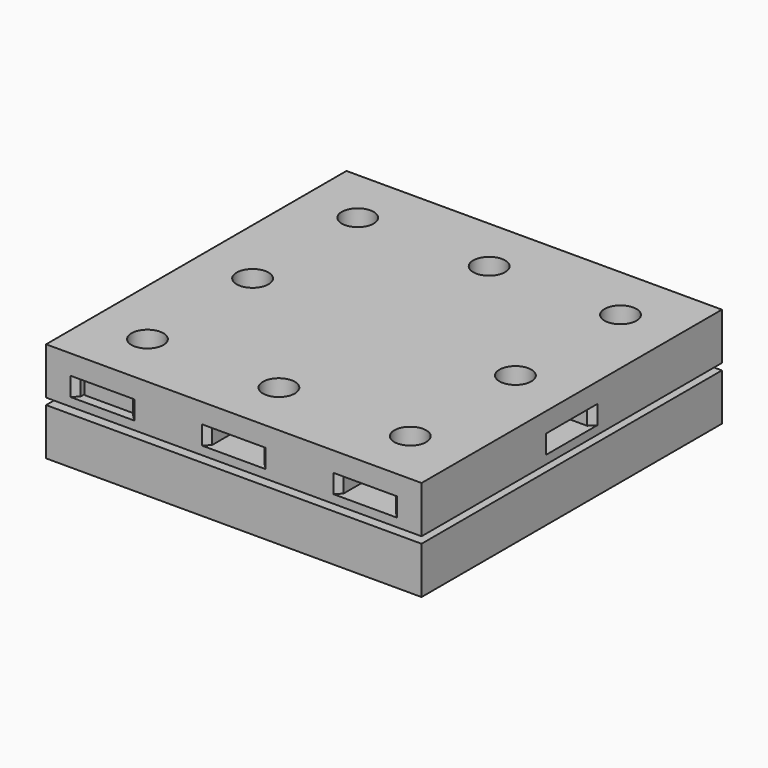
from build123d import *

# Parameters (mm, degrees)
BOX007_W          = 5.4
BOX007_H          = 5.4
BOX007_DEPTH      = 1.65
BOX006_W          = 5.4
BOX006_H          = 5.4
BOX006_DEPTH      = 1.65
BOX003_W          = 5.4
BOX003_H          = 5.4
BOX003_DEPTH      = 1.65
BOX005_W          = 5.4
BOX005_H          = 5.4
BOX005_DEPTH      = 1.65
BOX009_W          = 5.4
BOX009_H          = 5.4
BOX009_DEPTH      = 1.65
BOX010_W          = 5.4
BOX010_H          = 5.4
BOX010_DEPTH      = 1.65
BOX002_W          = 5.4
BOX002_H          = 5.4
BOX002_DEPTH      = 1.65
BOX008_W          = 5.4
BOX008_H          = 5.4
BOX008_DEPTH      = 1.65
BOX_W             = 40
BOX_H             = 40
BOX_DEPTH         = 5
CYLINDER004_R     = 1.7
CYLINDER004_DEPTH = 10
CYLINDER007_R     = 1.7
CYLINDER007_DEPTH = 10
CYLINDER005_R     = 1.7
CYLINDER005_DEPTH = 10
CYLINDER006_R     = 1.7
CYLINDER006_DEPTH = 10
CYLINDER001_R     = 1.7
CYLINDER001_DEPTH = 10
CYLINDER002_R     = 1.7
CYLINDER002_DEPTH = 10
CYLINDER003_R     = 1.7
CYLINDER003_DEPTH = 10
CYLINDER_R        = 1.7
CYLINDER_DEPTH    = 10
BOX014_W          = 10
BOX014_H          = 5.6
BOX014_DEPTH      = 2
BOX016_W          = 5.6
BOX016_H          = 10
BOX016_DEPTH      = 2
BOX012_W          = 5.6
BOX012_H          = 10
BOX012_DEPTH      = 2
BOX017_W          = 10
BOX017_H          = 5.6
BOX017_DEPTH      = 2
BOX015_W          = 5.6
BOX015_H          = 10
BOX015_DEPTH      = 2
BOX018_W          = 5.6
BOX018_H          = 10
BOX018_DEPTH      = 2
BOX011_W          = 5.6
BOX011_H          = 10
BOX011_DEPTH      = 2
BOX013_W          = 5.6
BOX013_H          = 10
BOX013_DEPTH      = 2
BOX001_W          = 40
BOX001_H          = 40
BOX001_DEPTH      = 5
CHAMFER_SIZE      = 0.6
CHAMFER001_SIZE   = 0.6
CHAMFER002_SIZE   = 0.6
CHAMFER003_SIZE   = 0.6


with BuildPart() as square_nut004:
    # Box007 → Box007 (new body)
    with BuildSketch(Plane(origin=(17.15, 31.15, 4.6), x_dir=(1, 0, 0), z_dir=(0, 0, 1))):
        with Locations((2.7, 2.7)):
            Rectangle(BOX007_W, BOX007_H)
    extrude(amount=BOX007_DEPTH)


with BuildPart() as square_nut003:
    # Box006 → Box006 (new body)
    with BuildSketch(Plane(origin=(17.15, 3.15, 4.6), x_dir=(1, 0, 0), z_dir=(0, 0, 1))):
        with Locations((2.7, 2.7)):
            Rectangle(BOX006_W, BOX006_H)
    extrude(amount=BOX006_DEPTH)


with BuildPart() as square_nut001:
    # Box003 → Box003 (new body)
    with BuildSketch(Plane(origin=(31.15, 17.15, 4.6), x_dir=(1, 0, 0), z_dir=(0, 0, 1))):
        with Locations((2.7, 2.7)):
            Rectangle(BOX003_W, BOX003_H)
    extrude(amount=BOX003_DEPTH)


with BuildPart() as square_nut002:
    # Box005 → Box005 (new body)
    with BuildSketch(Plane(origin=(3.15, 31.15, 4.6), x_dir=(1, 0, 0), z_dir=(0, 0, 1))):
        with Locations((2.7, 2.7)):
            Rectangle(BOX005_W, BOX005_H)
    extrude(amount=BOX005_DEPTH)


with BuildPart() as square_nut006:
    # Box009 → Box009 (new body)
    with BuildSketch(Plane(origin=(31.15, 31.15, 4.6), x_dir=(1, 0, 0), z_dir=(0, 0, 1))):
        with Locations((2.7, 2.7)):
            Rectangle(BOX009_W, BOX009_H)
    extrude(amount=BOX009_DEPTH)


with BuildPart() as square_nut007:
    # Box010 → Box010 (new body)
    with BuildSketch(Plane(origin=(3.15, 17.15, 4.6), x_dir=(1, 0, 0), z_dir=(0, 0, 1))):
        with Locations((2.7, 2.7)):
            Rectangle(BOX010_W, BOX010_H)
    extrude(amount=BOX010_DEPTH)


with BuildPart() as square_nut:
    # Box002 → Box002 (new body)
    with BuildSketch(Plane(origin=(3.3, 1, 4.6), x_dir=(1, 0, 0), z_dir=(0, 0, 1))):
        with Locations((2.7, 2.7)):
            Rectangle(BOX002_W, BOX002_H)
    extrude(amount=BOX002_DEPTH)


with BuildPart() as square_nuts:
    # Box008 → Box008 (new body)
    with BuildSketch(Plane(origin=(31.15, 3.15, 4.6), x_dir=(1, 0, 0), z_dir=(0, 0, 1))):
        with Locations((2.7, 2.7)):
            Rectangle(BOX008_W, BOX008_H)
    extrude(amount=BOX008_DEPTH)

    # Fusion: union Square Nut004, Square Nut003, Square Nut001, Square Nut002, Square Nut006, Square Nut007, Square Nut
    add(square_nut004.part)
    add(square_nut003.part)
    add(square_nut001.part)
    add(square_nut002.part)
    add(square_nut006.part)
    add(square_nut007.part)
    add(square_nut.part)


with BuildPart() as sphere005:
    # Sphere005 → Sphere005 (revolve)
    with BuildSketch(Plane(origin=(34, 20, 1.7), x_dir=(1, 0, 0), z_dir=(0, -1, 0))):
        with BuildLine():
            ThreePointArc((0, -2.85), (2.85, 0), (0, 2.85))
            Line((0, 2.85), (0, -2.85))
        make_face()
    revolve(axis=Axis((34, 20, 1.7), (0, 0, 1)))


with BuildPart() as sphere003:
    # Sphere003 → Sphere003 (revolve)
    with BuildSketch(Plane(origin=(6, 34, 1.7), x_dir=(1, 0, 0), z_dir=(0, -1, 0))):
        with BuildLine():
            ThreePointArc((0, -2.85), (2.85, 0), (0, 2.85))
            Line((0, 2.85), (0, -2.85))
        make_face()
    revolve(axis=Axis((6, 34, 1.7), (0, 0, 1)))


with BuildPart() as fusion004:
    # Sphere → Sphere (revolve)
    with BuildSketch(Plane(origin=(6, 6, 1.7), x_dir=(1, 0, 0), z_dir=(0, -1, 0))):
        with BuildLine():
            ThreePointArc((0, -2.85), (2.85, 0), (0, 2.85))
            Line((0, 2.85), (0, -2.85))
        make_face()
    revolve(axis=Axis((6, 6, 1.7), (0, 0, 1)))

    # Fusion004: union Sphere005, Sphere003
    add(sphere005.part)
    add(sphere003.part)


with BuildPart() as cut003:
    # Box → Box (new body)
    with BuildSketch(Plane.XY.offset(-2)):
        with Locations((20, 20)):
            Rectangle(BOX_W, BOX_H)
    extrude(amount=BOX_DEPTH)

    # Cut003: cut Fusion004
    add(fusion004.part, mode=Mode.SUBTRACT)


with BuildPart() as cylinder004:
    # Cylinder004 → Cylinder004 (new body)
    with BuildSketch(Plane(origin=(20, 34, 0), x_dir=(1, 0, 0), z_dir=(0, 0, 1))):
        Circle(CYLINDER004_R)
    extrude(amount=CYLINDER004_DEPTH)


with BuildPart() as cylinder007:
    # Cylinder007 → Cylinder007 (new body)
    with BuildSketch(Plane(origin=(34, 20, 0), x_dir=(1, 0, 0), z_dir=(0, 0, 1))):
        Circle(CYLINDER007_R)
    extrude(amount=CYLINDER007_DEPTH)


with BuildPart() as cylinder005:
    # Cylinder005 → Cylinder005 (new body)
    with BuildSketch(Plane(origin=(6, 34, 0), x_dir=(1, 0, 0), z_dir=(0, 0, 1))):
        Circle(CYLINDER005_R)
    extrude(amount=CYLINDER005_DEPTH)


with BuildPart() as cylinder006:
    # Cylinder006 → Cylinder006 (new body)
    with BuildSketch(Plane(origin=(6, 20, 0), x_dir=(1, 0, 0), z_dir=(0, 0, 1))):
        Circle(CYLINDER006_R)
    extrude(amount=CYLINDER006_DEPTH)


with BuildPart() as cylinder001:
    # Cylinder001 → Cylinder001 (new body)
    with BuildSketch(Plane(origin=(20, 6, 0), x_dir=(1, 0, 0), z_dir=(0, 0, 1))):
        Circle(CYLINDER001_R)
    extrude(amount=CYLINDER001_DEPTH)


with BuildPart() as cylinder002:
    # Cylinder002 → Cylinder002 (new body)
    with BuildSketch(Plane(origin=(34, 6, 0), x_dir=(1, 0, 0), z_dir=(0, 0, 1))):
        Circle(CYLINDER002_R)
    extrude(amount=CYLINDER002_DEPTH)


with BuildPart() as cylinder003:
    # Cylinder003 → Cylinder003 (new body)
    with BuildSketch(Plane(origin=(34, 34, 0), x_dir=(1, 0, 0), z_dir=(0, 0, 1))):
        Circle(CYLINDER003_R)
    extrude(amount=CYLINDER003_DEPTH)


with BuildPart() as fusion002:
    # Cylinder → Cylinder (new body)
    with BuildSketch(Plane(origin=(6, 6, 0), x_dir=(1, 0, 0), z_dir=(0, 0, 1))):
        Circle(CYLINDER_R)
    extrude(amount=CYLINDER_DEPTH)

    # Fusion002: union Cylinder004, Cylinder007, Cylinder005, Cylinder006, Cylinder001, Cylinder002, Cylinder003
    add(cylinder004.part)
    add(cylinder007.part)
    add(cylinder005.part)
    add(cylinder006.part)
    add(cylinder001.part)
    add(cylinder002.part)
    add(cylinder003.part)


with BuildPart() as sphere008:
    # Sphere008 → Sphere008 (revolve)
    with BuildSketch(Plane(origin=(6, 34, 2.4), x_dir=(1, 0, 0), z_dir=(0, -1, 0))):
        with BuildLine():
            ThreePointArc((0, -3.35), (3.35, 0), (0, 3.35))
            Line((0, 3.35), (0, -3.35))
        make_face()
    revolve(axis=Axis((6, 34, 2.4), (0, 0, 1)))


with BuildPart() as obj1:
    # Sphere006 → Sphere006 (revolve)
    with BuildSketch(Plane(origin=(6, 6, 2.4), x_dir=(1, 0, 0), z_dir=(0, -1, 0))):
        with BuildLine():
            ThreePointArc((0, -3.35), (3.35, 0), (0, 3.35))
            Line((0, 3.35), (0, -3.35))
        make_face()
    revolve(axis=Axis((6, 6, 2.4), (0, 0, 1)))


with BuildPart() as sphere009:
    # Sphere009 → Sphere009 (revolve)
    with BuildSketch(Plane(origin=(20, 6, 2.4), x_dir=(1, 0, 0), z_dir=(0, -1, 0))):
        with BuildLine():
            ThreePointArc((0, -3.35), (3.35, 0), (0, 3.35))
            Line((0, 3.35), (0, -3.35))
        make_face()
    revolve(axis=Axis((20, 6, 2.4), (0, 0, 1)))


with BuildPart() as sphere001:
    # Sphere001 → Sphere001 (revolve)
    with BuildSketch(Plane(origin=(34, 6, 2.4), x_dir=(1, 0, 0), z_dir=(0, -1, 0))):
        with BuildLine():
            ThreePointArc((0, -3.35), (3.35, 0), (0, 3.35))
            Line((0, 3.35), (0, -3.35))
        make_face()
    revolve(axis=Axis((34, 6, 2.4), (0, 0, 1)))


with BuildPart() as sphere010:
    # Sphere010 → Sphere010 (revolve)
    with BuildSketch(Plane(origin=(20, 34, 2.4), x_dir=(1, 0, 0), z_dir=(0, -1, 0))):
        with BuildLine():
            ThreePointArc((0, -3.35), (3.35, 0), (0, 3.35))
            Line((0, 3.35), (0, -3.35))
        make_face()
    revolve(axis=Axis((20, 34, 2.4), (0, 0, 1)))


with BuildPart() as sphere004:
    # Sphere004 → Sphere004 (revolve)
    with BuildSketch(Plane(origin=(6, 20, 2.4), x_dir=(1, 0, 0), z_dir=(0, -1, 0))):
        with BuildLine():
            ThreePointArc((0, -3.35), (3.35, 0), (0, 3.35))
            Line((0, 3.35), (0, -3.35))
        make_face()
    revolve(axis=Axis((6, 20, 2.4), (0, 0, 1)))


with BuildPart() as sphere002:
    # Sphere002 → Sphere002 (revolve)
    with BuildSketch(Plane(origin=(34, 34, 2.4), x_dir=(1, 0, 0), z_dir=(0, -1, 0))):
        with BuildLine():
            ThreePointArc((0, -3.35), (3.35, 0), (0, 3.35))
            Line((0, 3.35), (0, -3.35))
        make_face()
    revolve(axis=Axis((34, 34, 2.4), (0, 0, 1)))


with BuildPart() as fusion003:
    # Sphere007 → Sphere007 (revolve)
    with BuildSketch(Plane(origin=(34, 20, 2.4), x_dir=(1, 0, 0), z_dir=(0, -1, 0))):
        with BuildLine():
            ThreePointArc((0, -3.35), (3.35, 0), (0, 3.35))
            Line((0, 3.35), (0, -3.35))
        make_face()
    revolve(axis=Axis((34, 20, 2.4), (0, 0, 1)))

    # Fusion003: union Sphere008, obj1, Sphere009, Sphere001, Sphere010, Sphere004, Sphere002
    add(sphere008.part)
    add(obj1.part)
    add(sphere009.part)
    add(sphere001.part)
    add(sphere010.part)
    add(sphere004.part)
    add(sphere002.part)


with BuildPart() as box014:
    # Box014 → Box014 (new body)
    with BuildSketch(Plane(origin=(30.85, 17.2, 4.6), x_dir=(1, 0, 0), z_dir=(0, 0, 1))):
        with Locations((5, 2.8)):
            Rectangle(BOX014_W, BOX014_H)
    extrude(amount=BOX014_DEPTH)


with BuildPart() as box016:
    # Box016 → Box016 (new body)
    with BuildSketch(Plane(origin=(31.2, 30.85, 4.6), x_dir=(1, 0, 0), z_dir=(0, 0, 1))):
        with Locations((2.8, 5)):
            Rectangle(BOX016_W, BOX016_H)
    extrude(amount=BOX016_DEPTH)


with BuildPart() as box012:
    # Box012 → Box012 (new body)
    with BuildSketch(Plane(origin=(17.2, -0.85, 4.6), x_dir=(1, 0, 0), z_dir=(0, 0, 1))):
        with Locations((2.8, 5)):
            Rectangle(BOX012_W, BOX012_H)
    extrude(amount=BOX012_DEPTH)


with BuildPart() as box017:
    # Box017 → Box017 (new body)
    with BuildSketch(Plane(origin=(-0.85, 17.2, 4.6), x_dir=(1, 0, 0), z_dir=(0, 0, 1))):
        with Locations((5, 2.8)):
            Rectangle(BOX017_W, BOX017_H)
    extrude(amount=BOX017_DEPTH)


with BuildPart() as box015:
    # Box015 → Box015 (new body)
    with BuildSketch(Plane(origin=(3.2, 30.85, 4.6), x_dir=(1, 0, 0), z_dir=(0, 0, 1))):
        with Locations((2.8, 5)):
            Rectangle(BOX015_W, BOX015_H)
    extrude(amount=BOX015_DEPTH)


with BuildPart() as box018:
    # Box018 → Box018 (new body)
    with BuildSketch(Plane(origin=(3.2, -0.85, 4.6), x_dir=(1, 0, 0), z_dir=(0, 0, 1))):
        with Locations((2.8, 5)):
            Rectangle(BOX018_W, BOX018_H)
    extrude(amount=BOX018_DEPTH)


with BuildPart() as box011:
    # Box011 → Box011 (new body)
    with BuildSketch(Plane(origin=(17.2, 30.85, 4.6), x_dir=(1, 0, 0), z_dir=(0, 0, 1))):
        with Locations((2.8, 5)):
            Rectangle(BOX011_W, BOX011_H)
    extrude(amount=BOX011_DEPTH)


with BuildPart() as square_nut_hole:
    # Box013 → Box013 (new body)
    with BuildSketch(Plane(origin=(31.2, -0.85, 4.6), x_dir=(1, 0, 0), z_dir=(0, 0, 1))):
        with Locations((2.8, 5)):
            Rectangle(BOX013_W, BOX013_H)
    extrude(amount=BOX013_DEPTH)

    # Fusion001: union Box014, Box016, Box012, Box017, Box015, Box018, Box011
    add(box014.part)
    add(box016.part)
    add(box012.part)
    add(box017.part)
    add(box015.part)
    add(box018.part)
    add(box011.part)


with BuildPart() as chamfer003:
    # Box001 → Box001 (new body)
    with BuildSketch(Plane.XY.offset(3.7)):
        with Locations((20, 20)):
            Rectangle(BOX001_W, BOX001_H)
    extrude(amount=BOX001_DEPTH)

    # Cut: cut Square Nut Hole
    add(square_nut_hole.part, mode=Mode.SUBTRACT)

    # Cut001: cut Fusion003
    add(fusion003.part, mode=Mode.SUBTRACT)

    # Cut002: cut Fusion002
    add(fusion002.part, mode=Mode.SUBTRACT)

    # Chamfer
    chamfer_edges = [chamfer003.edges().sort_by_distance(p)[0] for p in [
        (36.8, 40, 5.6),
    ]]
    chamfer(chamfer_edges, length=CHAMFER_SIZE)

    # Chamfer001
    chamfer001_edges = [chamfer003.edges().sort_by_distance(p)[0] for p in [
        (31.2, 40, 5.6),
        (22.8, 40, 5.6),
        (17.2, 40, 5.6),
        (8.8, 40, 5.6),
        (3.2, 40, 5.6),
    ]]
    chamfer(chamfer001_edges, length=CHAMFER001_SIZE)

    # Chamfer002
    chamfer002_edges = [chamfer003.edges().sort_by_distance(p)[0] for p in [
        (40, 22.8, 5.6),
        (40, 17.2, 5.6),
        (0, 22.8, 5.6),
        (0, 17.2, 5.6),
    ]]
    chamfer(chamfer002_edges, length=CHAMFER002_SIZE)

    # Chamfer003
    chamfer003_edges = [chamfer003.edges().sort_by_distance(p)[0] for p in [
        (8.8, 0, 5.6),
        (3.2, 0, 5.6),
        (22.8, 0, 5.6),
        (17.2, 0, 5.6),
        (36.8, 0, 5.6),
        (31.2, 0, 5.6),
    ]]
    chamfer(chamfer003_edges, length=CHAMFER003_SIZE)


solid = Compound([square_nuts.part, cut003.part, chamfer003.part])
